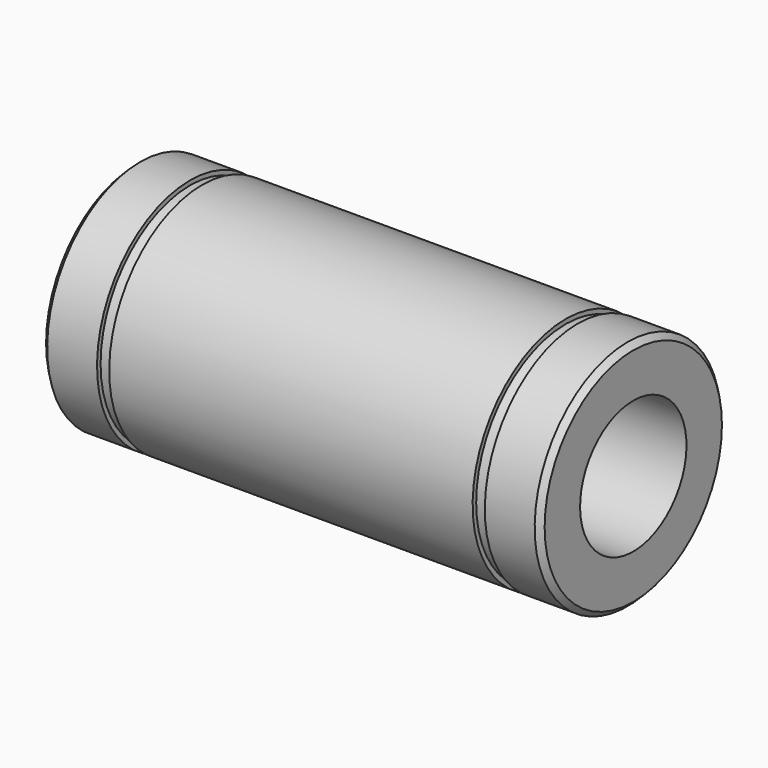
from build123d import *

# Parameters (mm, degrees)
F2_SIZE = 0.5


with BuildPart() as f1:
    # F0 (on Front) → F1 (revolve)
    with BuildSketch(Plane.XZ):
        Polygon((-22.5, 6), (0, 6), (22.5, 6), (22.5, 10.5), (17.5, 10.5), (17.5, 10.1), (16.4, 10.1), (16.4, 10.5), (0, 10.5), (-16.4, 10.5), (-16.4, 10.1), (-17.5, 10.1), (-17.5, 10.5), (-22.5, 10.5), align=None)
    revolve(axis=Axis((10.160222, 0, 0), (1, 0, 0)))

    # F2
    f2_edges = [f1.edges().sort_by_distance(p)[0] for p in [
        (22.5, 0, -10.5),
        (-22.5, 0, -10.5),
    ]]
    chamfer(f2_edges, length=F2_SIZE)


solid = f1.part
